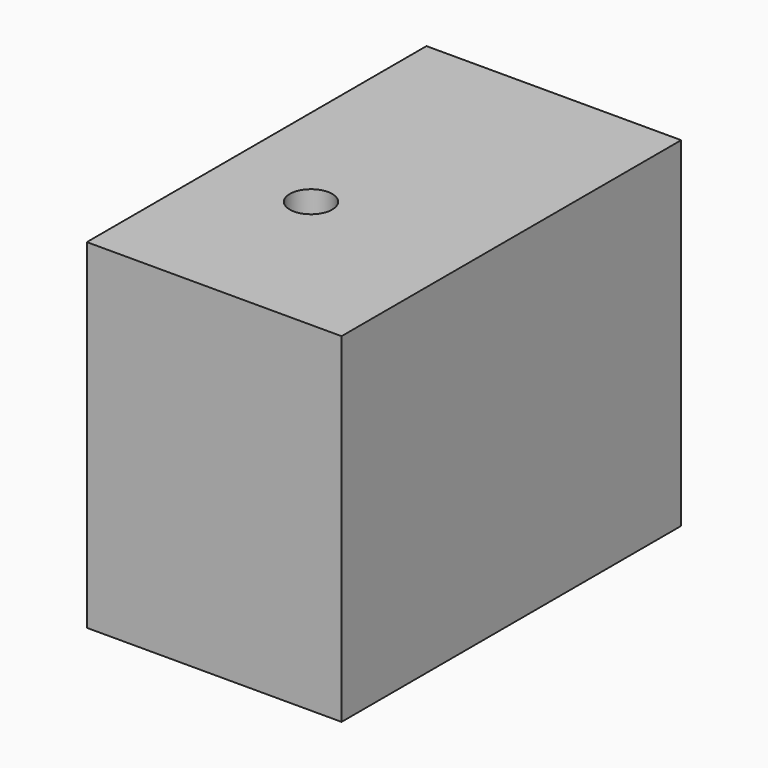
from build123d import *

# Parameters (mm, degrees)
F0_W           = 127
F0_H           = 101.6
F1_DEPTH       = 76.2
F3_D           = 12.7
F3_CBORE_D     = 12.7
F3_CBORE_DEPTH = 6.35


with BuildPart() as f1:
    # F0 (on Right) → F1 (new body)
    with BuildSketch(Plane.YZ):
        with Locations((3.588486, 0)):
            Rectangle(F0_W, F0_H)
    extrude(amount=F1_DEPTH)

    # F3 (through all)
    with Locations(Plane.XY.offset(50.8)):
        with Locations((28.140478, -11.259023)):
            CounterBoreHole(F3_D / 2, F3_CBORE_D / 2, F3_CBORE_DEPTH)


solid = f1.part
